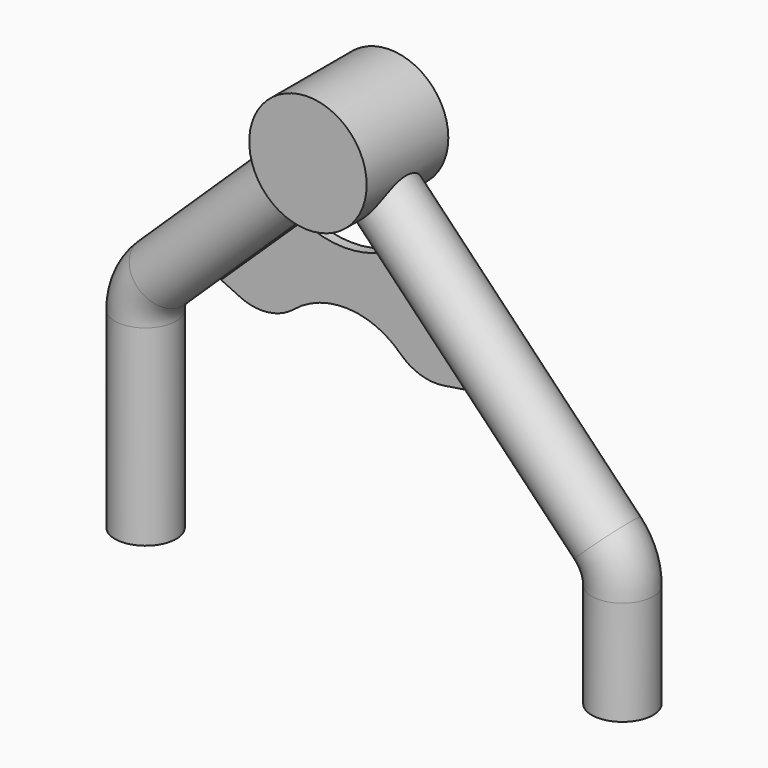
from build123d import *

# Parameters (mm, degrees)
F3_R     = 14.605
F4_DEPTH = 12.7
F2_R     = 7.6311340138
F7_DEPTH = 1.27


with BuildPart() as f4:
    # F3 (on Front) → F4 (new body, symmetric)
    with BuildSketch(Plane.XZ):
        Circle(F3_R)
    extrude(amount=F4_DEPTH, both=True)

    # F5: sweep along a path in F0
    with BuildLine(Plane.XZ) as f5_path:
        Line((67.6874214057, -101.4042571187), (67.6874214057, -75.40361079))
        ThreePointArc((67.6874214057, -75.40361079), (66.7658728333, -70.6540758688), (64.1349675525, -66.59382081))
        Line((64.1349675525, -66.59382081), (0, 0))
        Line((0, 0), (-46.2717179185, -44.5632205993))
        ThreePointArc((-46.2717179185, -44.5632205993), (-49.1489791651, -48.74057222), (-50.1619279385, -53.710766746))
        Line((-50.1619279385, -53.710766746), (-50.1619279385, -101.4042571187))
    # F2 (on line) → F5 (sweep)
    with BuildSketch(Plane(origin=(0, 0, -101.4042571187), x_dir=(1, 0, 0), z_dir=(0, 0, -1))):
        with Locations((68.0825263262, 0)):
            Circle(F2_R)
    sweep(path=f5_path.line, transition=Transition.RIGHT)


with BuildPart() as f7:
    # F6 (on Front) → F7 (new body, symmetric)
    with BuildSketch(Plane.XZ):
        with BuildLine():
            ThreePointArc((9.8897112632, -20.9123172234), (-0.2808074344, -23.1312029023), (-10.3944632585, -20.6660720527))
            Line((-10.3944632585, -20.6660720527), (-30.738119036, -40.172085166))
            Line((-30.738119036, -40.172085166), (-26.0577209294, -42.374760996))
            ThreePointArc((-26.0577209294, -42.374760996), (-19.0865137753, -43.4871060906), (-12.5983355416, -40.7052750384))
            ThreePointArc((-12.5983355416, -40.7052750384), (0.8598543979, -36.2199679132), (13.8798569548, -41.8520536613))
            ThreePointArc((13.8798569548, -41.8520536613), (18.8860975869, -44.8611972259), (24.7097382477, -45.3113080046))
            Line((24.7097382477, -45.3113080046), (31.9666825235, -44.1781245172))
            Line((31.9666825235, -44.1781245172), (9.8897112632, -20.9123172234))
        make_face()
    extrude(amount=F7_DEPTH, both=True)


solid = Compound([f4.part, f7.part])
